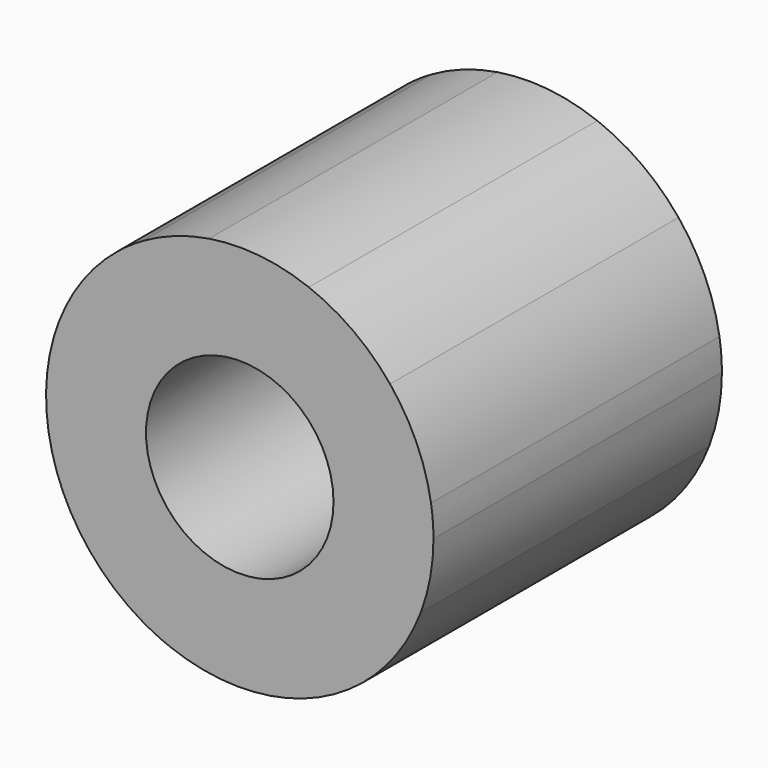
from build123d import *

# Parameters (mm, degrees)
F0_R     = 6.5
F1_DEPTH = 25
F2_COUNT = 12


with BuildPart() as f1:
    # F0 (on Front) → F1 (new body)
    with BuildSketch(Plane.XZ):
        with BuildLine():
            ThreePointArc((-2.124472, 13.261155), (-8.713192, -10.220171), (13.43025, 0))
            ThreePointArc((13.43025, 0), (8.713444, 10.219956), (-2.123817, 13.26126))
            ThreePointArc((-2.123817, 13.26126), (-2.124144, 13.261208), (-2.124472, 13.261155))
        make_face()
        Circle(F0_R, mode=Mode.SUBTRACT)
    extrude(amount=F1_DEPTH)

    # F2: F1 ×12 about axis
    f2_axis = Axis((0, 0, 0), (0, 1, 0))


with BuildPart() as f1_1:
    add(f1.part)
    for i in range(1, F2_COUNT):
        add(f1.part.rotate(f2_axis, i * 360 / F2_COUNT))


solid = f1_1.part
